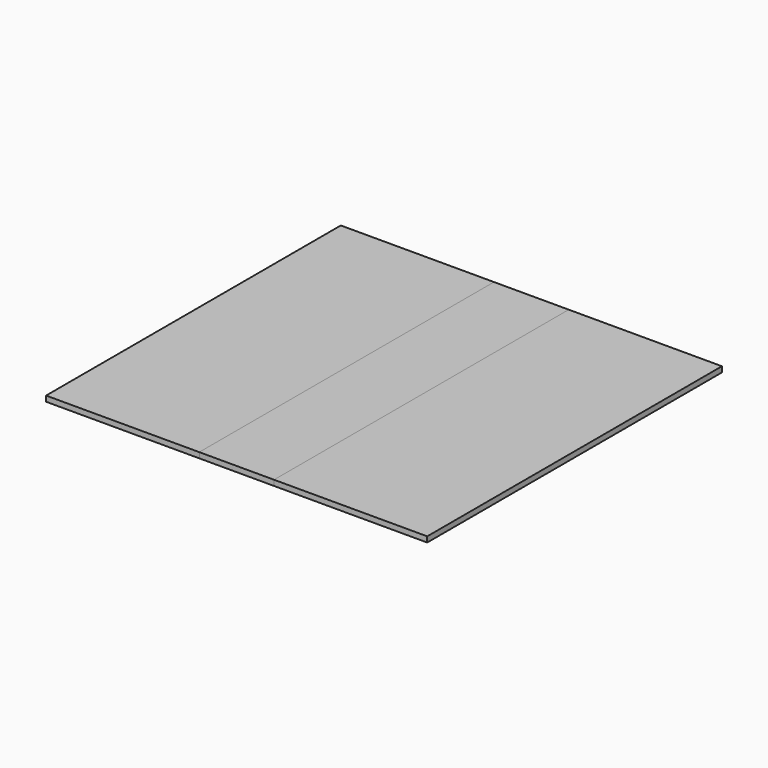
from build123d import *

# Parameters (mm, degrees)
F0_W     = 533.4
F0_H     = 1282.7
F1_DEPTH = 19.05
F2_DEPTH = 19.05
F0_W_2   = 260.35
F3_DEPTH = 19.05


with BuildPart() as f1:
    # F0 (on Top) → F1 (new body)
    with BuildSketch(Plane.XY):
        with Locations((-396.875, 0)):
            Rectangle(F0_W, F0_H)
    extrude(amount=F1_DEPTH)


with BuildPart() as f2:
    # F0 (on Top) → F2 (new body)
    with BuildSketch(Plane.XY):
        with Locations((396.875, 0)):
            Rectangle(F0_W, F0_H)
    extrude(amount=F2_DEPTH)


with BuildPart() as f3:
    # F0 (on Top) → F3 (new body)
    with BuildSketch(Plane.XY):
        Rectangle(F0_W_2, F0_H)
    extrude(amount=F3_DEPTH)


solid = Compound([f1.part, f2.part, f3.part])
